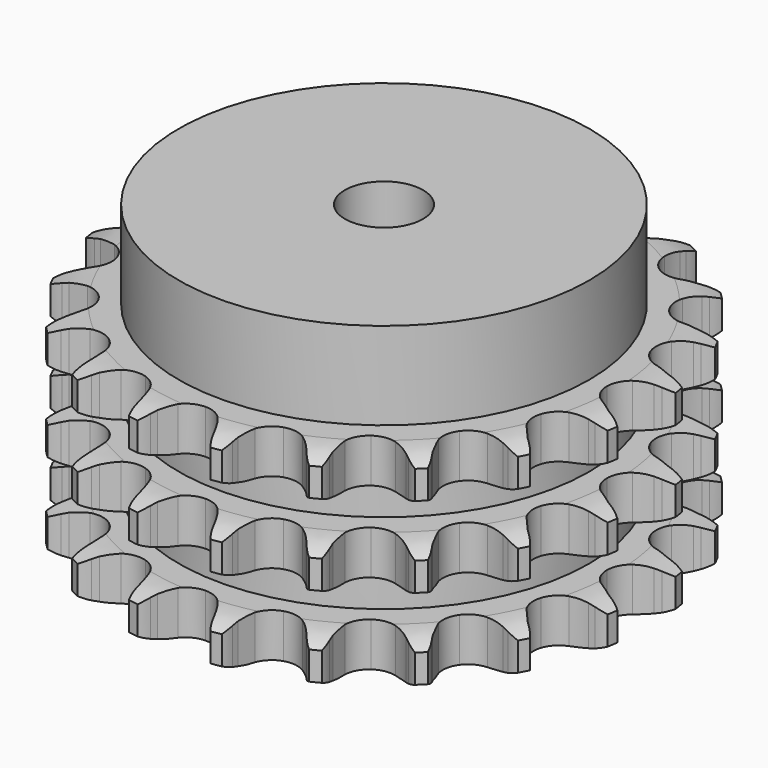
from build123d import *

# Parameters (mm, degrees)
PAD_DEPTH         = 42.1
SKETCH001_R       = 42
PAD001_DEPTH      = 60
SKETCH002_R       = 8
POCKET_DEPTH      = 0.001
POCKET_DEPTH_BACK = 60.001


with BuildPart() as part:
    # Sprocket → Pad (new body)
    with BuildSketch(Plane.XY):
        with BuildLine():
            ThreePointArc((-8.707919, 54.979639), (-7.318424, 53.516846), (-6.318533, 51.764512))
            Line((-6.318533, 51.764512), (-5.829555, 50.601281))
            ThreePointArc((-5.829555, 50.601281), (-5.041899, 49.028367), (-4.053133, 47.573443))
            ThreePointArc((-4.053133, 47.573443), (-2.254762, 46.11715), (0, 45.596597))
            ThreePointArc((0, 45.596597), (2.254762, 46.11715), (4.053133, 47.573443))
            ThreePointArc((4.053133, 47.573443), (5.041899, 49.028367), (5.829555, 50.601281))
            Line((5.829555, 50.601281), (6.318533, 51.764512))
            ThreePointArc((6.318533, 51.764512), (7.318424, 53.516846), (8.707919, 54.979639))
            ThreePointArc((8.707919, 54.979639), (9.57738, 53.159063), (9.986832, 51.18351))
            Line((9.986832, 51.18351), (10.092419, 49.92611))
            ThreePointArc((10.092419, 49.92611), (10.355468, 48.18678), (10.846243, 46.49752))
            ThreePointArc((10.846243, 46.49752), (12.106577, 44.556776), (14.090123, 43.364941))
            ThreePointArc((14.090123, 43.364941), (16.395389, 43.163257), (18.555761, 43.992546))
            Line((18.555761, 43.992546), (21.180892, 46.323246))
            ThreePointArc((21.180892, 46.323246), (21.581785, 46.810649), (22.005396, 47.278442))
            ThreePointArc((22.005396, 47.278442), (23.49785, 48.636028), (25.271366, 49.597849))
            ThreePointArc((25.271366, 49.597849), (25.535683, 47.5977), (25.314616, 45.59231))
            Line((25.314616, 45.59231), (25.026477, 44.363823))
            ThreePointArc((25.026477, 44.363823), (24.739169, 42.628336), (24.683914, 40.870096))
            ThreePointArc((24.683914, 40.870096), (25.28284, 38.634874), (26.801008, 36.888422))
            ThreePointArc((26.801008, 36.888422), (28.931122, 35.984242), (31.242022, 36.105352))
            Line((31.242022, 36.105352), (34.458896, 37.510769))
            ThreePointArc((34.458896, 37.510769), (34.990784, 37.850434), (35.538217, 38.164429))
            ThreePointArc((35.538217, 38.164429), (37.377143, 38.994376), (39.361076, 39.361076))
            ThreePointArc((39.361076, 39.361076), (38.994376, 37.377143), (38.164429, 35.538217))
            Line((38.164429, 35.538217), (37.510769, 34.458896))
            ThreePointArc((37.510769, 34.458896), (36.701228, 32.897133), (36.105352, 31.242022))
            ThreePointArc((36.105352, 31.242022), (35.984242, 28.931122), (36.888422, 26.801008))
            ThreePointArc((36.888422, 26.801008), (38.634874, 25.28284), (40.870096, 24.683914))
            Line((40.870096, 24.683914), (44.363823, 25.026477))
            ThreePointArc((44.363823, 25.026477), (44.97464, 25.185155), (45.59231, 25.314616))
            ThreePointArc((45.59231, 25.314616), (47.5977, 25.535683), (49.597849, 25.271366))
            ThreePointArc((49.597849, 25.271366), (48.636028, 23.49785), (47.278442, 22.005396))
            Line((47.278442, 22.005396), (46.323246, 21.180892))
            ThreePointArc((46.323246, 21.180892), (45.070715, 19.945729), (43.992546, 18.555761))
            ThreePointArc((43.992546, 18.555761), (43.163257, 16.395389), (43.364941, 14.090123))
            ThreePointArc((43.364941, 14.090123), (44.556776, 12.106577), (46.49752, 10.846243))
            Line((46.49752, 10.846243), (49.92611, 10.092419))
            ThreePointArc((49.92611, 10.092419), (50.556066, 10.054578), (51.18351, 9.986832))
            ThreePointArc((51.18351, 9.986832), (53.159063, 9.57738), (54.979639, 8.707919))
            ThreePointArc((54.979639, 8.707919), (53.516846, 7.318424), (51.764512, 6.318533))
            Line((51.764512, 6.318533), (50.601281, 5.829555))
            ThreePointArc((50.601281, 5.829555), (49.028367, 5.041899), (47.573443, 4.053133))
            ThreePointArc((47.573443, 4.053133), (46.11715, 2.254762), (45.596597, 0))
            ThreePointArc((45.596597, 0), (46.11715, -2.254762), (47.573443, -4.053133))
            Line((47.573443, -4.053133), (50.601281, -5.829555))
            ThreePointArc((50.601281, -5.829555), (51.188711, -6.060212), (51.764512, -6.318533))
            ThreePointArc((51.764512, -6.318533), (53.516846, -7.318424), (54.979639, -8.707919))
            ThreePointArc((54.979639, -8.707919), (53.159063, -9.57738), (51.18351, -9.986832))
            Line((51.18351, -9.986832), (49.92611, -10.092419))
            ThreePointArc((49.92611, -10.092419), (48.18678, -10.355468), (46.49752, -10.846243))
            ThreePointArc((46.49752, -10.846243), (44.556776, -12.106577), (43.364941, -14.090123))
            ThreePointArc((43.364941, -14.090123), (43.163257, -16.395389), (43.992546, -18.555761))
            Line((43.992546, -18.555761), (46.323246, -21.180892))
            ThreePointArc((46.323246, -21.180892), (46.810649, -21.581785), (47.278442, -22.005396))
            ThreePointArc((47.278442, -22.005396), (48.636028, -23.49785), (49.597849, -25.271366))
            ThreePointArc((49.597849, -25.271366), (47.5977, -25.535683), (45.59231, -25.314616))
            Line((45.59231, -25.314616), (44.363823, -25.026477))
            ThreePointArc((44.363823, -25.026477), (42.628336, -24.739169), (40.870096, -24.683914))
            ThreePointArc((40.870096, -24.683914), (38.634874, -25.28284), (36.888422, -26.801008))
            ThreePointArc((36.888422, -26.801008), (35.984242, -28.931122), (36.105352, -31.242022))
            Line((36.105352, -31.242022), (37.510769, -34.458896))
            ThreePointArc((37.510769, -34.458896), (37.850434, -34.990784), (38.164429, -35.538217))
            ThreePointArc((38.164429, -35.538217), (38.994376, -37.377143), (39.361076, -39.361076))
            ThreePointArc((39.361076, -39.361076), (37.377143, -38.994376), (35.538217, -38.164429))
            Line((35.538217, -38.164429), (34.458896, -37.510769))
            ThreePointArc((34.458896, -37.510769), (32.897133, -36.701228), (31.242022, -36.105352))
            ThreePointArc((31.242022, -36.105352), (28.931122, -35.984242), (26.801008, -36.888422))
            ThreePointArc((26.801008, -36.888422), (25.28284, -38.634874), (24.683914, -40.870096))
            Line((24.683914, -40.870096), (25.026477, -44.363823))
            ThreePointArc((25.026477, -44.363823), (25.185155, -44.97464), (25.314616, -45.59231))
            ThreePointArc((25.314616, -45.59231), (25.535683, -47.5977), (25.271366, -49.597849))
            ThreePointArc((25.271366, -49.597849), (23.49785, -48.636028), (22.005396, -47.278442))
            Line((22.005396, -47.278442), (21.180892, -46.323246))
            ThreePointArc((21.180892, -46.323246), (19.945729, -45.070715), (18.555761, -43.992546))
            ThreePointArc((18.555761, -43.992546), (16.395389, -43.163257), (14.090123, -43.364941))
            ThreePointArc((14.090123, -43.364941), (12.106577, -44.556776), (10.846243, -46.49752))
            Line((10.846243, -46.49752), (10.092419, -49.92611))
            ThreePointArc((10.092419, -49.92611), (10.054578, -50.556066), (9.986832, -51.18351))
            ThreePointArc((9.986832, -51.18351), (9.57738, -53.159063), (8.707919, -54.979639))
            ThreePointArc((8.707919, -54.979639), (7.318424, -53.516846), (6.318533, -51.764512))
            Line((6.318533, -51.764512), (5.829555, -50.601281))
            ThreePointArc((5.829555, -50.601281), (5.041899, -49.028367), (4.053133, -47.573443))
            ThreePointArc((4.053133, -47.573443), (2.254762, -46.11715), (0, -45.596597))
            ThreePointArc((0, -45.596597), (-2.254762, -46.11715), (-4.053133, -47.573443))
            Line((-4.053133, -47.573443), (-5.829555, -50.601281))
            ThreePointArc((-5.829555, -50.601281), (-6.060212, -51.188711), (-6.318533, -51.764512))
            ThreePointArc((-6.318533, -51.764512), (-7.318424, -53.516846), (-8.707919, -54.979639))
            ThreePointArc((-8.707919, -54.979639), (-9.57738, -53.159063), (-9.986832, -51.18351))
            Line((-9.986832, -51.18351), (-10.092419, -49.92611))
            ThreePointArc((-10.092419, -49.92611), (-10.355468, -48.18678), (-10.846243, -46.49752))
            ThreePointArc((-10.846243, -46.49752), (-12.106577, -44.556776), (-14.090123, -43.364941))
            ThreePointArc((-14.090123, -43.364941), (-16.395389, -43.163257), (-18.555761, -43.992546))
            Line((-18.555761, -43.992546), (-21.180892, -46.323246))
            ThreePointArc((-21.180892, -46.323246), (-21.581785, -46.810649), (-22.005396, -47.278442))
            ThreePointArc((-22.005396, -47.278442), (-23.49785, -48.636028), (-25.271366, -49.597849))
            ThreePointArc((-25.271366, -49.597849), (-25.535683, -47.5977), (-25.314616, -45.59231))
            Line((-25.314616, -45.59231), (-25.026477, -44.363823))
            ThreePointArc((-25.026477, -44.363823), (-24.739169, -42.628336), (-24.683914, -40.870096))
            ThreePointArc((-24.683914, -40.870096), (-25.28284, -38.634874), (-26.801008, -36.888422))
            ThreePointArc((-26.801008, -36.888422), (-28.931122, -35.984242), (-31.242022, -36.105352))
            Line((-31.242022, -36.105352), (-34.458896, -37.510769))
            ThreePointArc((-34.458896, -37.510769), (-34.990784, -37.850434), (-35.538217, -38.164429))
            ThreePointArc((-35.538217, -38.164429), (-37.377143, -38.994376), (-39.361076, -39.361076))
            ThreePointArc((-39.361076, -39.361076), (-38.994376, -37.377143), (-38.164429, -35.538217))
            Line((-38.164429, -35.538217), (-37.510769, -34.458896))
            ThreePointArc((-37.510769, -34.458896), (-36.701228, -32.897133), (-36.105352, -31.242022))
            ThreePointArc((-36.105352, -31.242022), (-35.984242, -28.931122), (-36.888422, -26.801008))
            ThreePointArc((-36.888422, -26.801008), (-38.634874, -25.28284), (-40.870096, -24.683914))
            Line((-40.870096, -24.683914), (-44.363823, -25.026477))
            ThreePointArc((-44.363823, -25.026477), (-44.97464, -25.185155), (-45.59231, -25.314616))
            ThreePointArc((-45.59231, -25.314616), (-47.5977, -25.535683), (-49.597849, -25.271366))
            ThreePointArc((-49.597849, -25.271366), (-48.636028, -23.49785), (-47.278442, -22.005396))
            Line((-47.278442, -22.005396), (-46.323246, -21.180892))
            ThreePointArc((-46.323246, -21.180892), (-45.070715, -19.945729), (-43.992546, -18.555761))
            ThreePointArc((-43.992546, -18.555761), (-43.163257, -16.395389), (-43.364941, -14.090123))
            ThreePointArc((-43.364941, -14.090123), (-44.556776, -12.106577), (-46.49752, -10.846243))
            Line((-46.49752, -10.846243), (-49.92611, -10.092419))
            ThreePointArc((-49.92611, -10.092419), (-50.556066, -10.054578), (-51.18351, -9.986832))
            ThreePointArc((-51.18351, -9.986832), (-53.159063, -9.57738), (-54.979639, -8.707919))
            ThreePointArc((-54.979639, -8.707919), (-53.516846, -7.318424), (-51.764512, -6.318533))
            Line((-51.764512, -6.318533), (-50.601281, -5.829555))
            ThreePointArc((-50.601281, -5.829555), (-49.028367, -5.041899), (-47.573443, -4.053133))
            ThreePointArc((-47.573443, -4.053133), (-46.11715, -2.254762), (-45.596597, 0))
            ThreePointArc((-45.596597, 0), (-46.11715, 2.254762), (-47.573443, 4.053133))
            Line((-47.573443, 4.053133), (-50.601281, 5.829555))
            ThreePointArc((-50.601281, 5.829555), (-51.188711, 6.060212), (-51.764512, 6.318533))
            ThreePointArc((-51.764512, 6.318533), (-53.516846, 7.318424), (-54.979639, 8.707919))
            ThreePointArc((-54.979639, 8.707919), (-53.159063, 9.57738), (-51.18351, 9.986832))
            Line((-51.18351, 9.986832), (-49.92611, 10.092419))
            ThreePointArc((-49.92611, 10.092419), (-48.18678, 10.355468), (-46.49752, 10.846243))
            ThreePointArc((-46.49752, 10.846243), (-44.556776, 12.106577), (-43.364941, 14.090123))
            ThreePointArc((-43.364941, 14.090123), (-43.163257, 16.395389), (-43.992546, 18.555761))
            Line((-43.992546, 18.555761), (-46.323246, 21.180892))
            ThreePointArc((-46.323246, 21.180892), (-46.810649, 21.581785), (-47.278442, 22.005396))
            ThreePointArc((-47.278442, 22.005396), (-48.636028, 23.49785), (-49.597849, 25.271366))
            ThreePointArc((-49.597849, 25.271366), (-47.5977, 25.535683), (-45.59231, 25.314616))
            Line((-45.59231, 25.314616), (-44.363823, 25.026477))
            ThreePointArc((-44.363823, 25.026477), (-42.628336, 24.739169), (-40.870096, 24.683914))
            ThreePointArc((-40.870096, 24.683914), (-38.634874, 25.28284), (-36.888422, 26.801008))
            ThreePointArc((-36.888422, 26.801008), (-35.984242, 28.931122), (-36.105352, 31.242022))
            Line((-36.105352, 31.242022), (-37.510769, 34.458896))
            ThreePointArc((-37.510769, 34.458896), (-37.850434, 34.990784), (-38.164429, 35.538217))
            ThreePointArc((-38.164429, 35.538217), (-38.994376, 37.377143), (-39.361076, 39.361076))
            ThreePointArc((-39.361076, 39.361076), (-37.377143, 38.994376), (-35.538217, 38.164429))
            Line((-35.538217, 38.164429), (-34.458896, 37.510769))
            ThreePointArc((-34.458896, 37.510769), (-32.897133, 36.701228), (-31.242022, 36.105352))
            ThreePointArc((-31.242022, 36.105352), (-28.931122, 35.984242), (-26.801008, 36.888422))
            ThreePointArc((-26.801008, 36.888422), (-25.28284, 38.634874), (-24.683914, 40.870096))
            Line((-24.683914, 40.870096), (-25.026477, 44.363823))
            ThreePointArc((-25.026477, 44.363823), (-25.185155, 44.97464), (-25.314616, 45.59231))
            ThreePointArc((-25.314616, 45.59231), (-25.535683, 47.5977), (-25.271366, 49.597849))
            ThreePointArc((-25.271366, 49.597849), (-23.49785, 48.636028), (-22.005396, 47.278442))
            Line((-22.005396, 47.278442), (-21.180892, 46.323246))
            ThreePointArc((-21.180892, 46.323246), (-19.945729, 45.070715), (-18.555761, 43.992546))
            ThreePointArc((-18.555761, 43.992546), (-16.395389, 43.163257), (-14.090123, 43.364941))
            ThreePointArc((-14.090123, 43.364941), (-12.106577, 44.556776), (-10.846243, 46.49752))
            Line((-10.846243, 46.49752), (-10.092419, 49.92611))
            ThreePointArc((-10.092419, 49.92611), (-10.054578, 50.556066), (-9.986832, 51.18351))
            ThreePointArc((-9.986832, 51.18351), (-9.57738, 53.159063), (-8.707919, 54.979639))
        make_face()
    extrude(amount=PAD_DEPTH)

    # Sketch → Groove (revolve, cut)
    with BuildSketch(Plane.XZ):
        with BuildLine():
            ThreePointArc((47.225762, 0), (50.80347, 0.405129), (54.2, 1.6))
            Line((54.2, 1.6), (54.2, 7.4))
            ThreePointArc((54.2, 7.4), (50.80347, 8.594871), (47.225762, 9))
            Line((42, 9), (47.225762, 9))
            Line((42, 9), (42, 16.55))
            Line((42, 16.55), (47.225762, 16.55))
            ThreePointArc((47.225762, 16.55), (50.80347, 16.955129), (54.2, 18.15))
            Line((54.2, 23.95), (54.2, 18.15))
            ThreePointArc((54.2, 23.95), (50.80347, 25.144871), (47.225762, 25.55))
            Line((42, 25.55), (47.225762, 25.55))
            Line((42, 33.1), (42, 25.55))
            Line((47.225762, 33.1), (42, 33.1))
            ThreePointArc((47.225762, 33.1), (50.80347, 33.505129), (54.2, 34.7))
            Line((54.2, 34.7), (54.2, 40.5))
            ThreePointArc((54.2, 40.5), (50.80347, 41.694871), (47.225762, 42.1))
            Line((47.225762, 42.1), (64.2, 42.1))
            Line((64.2, 42.1), (64.2, 0))
            Line((47.225762, 0), (64.2, 0))
        make_face()
    revolve(axis=Axis((0, 0, 0), (0, 0, 1)), mode=Mode.SUBTRACT)

    # Sketch001 → Pad001 (join)
    with BuildSketch(Plane.XY):
        Circle(SKETCH001_R)
    extrude(amount=PAD001_DEPTH)

    # Sketch002 → Pocket (cut, two sides)
    with BuildSketch(Plane.XY) as pocket_sk:
        Circle(SKETCH002_R)
    extrude(amount=-POCKET_DEPTH, mode=Mode.SUBTRACT)
    extrude(pocket_sk.sketch, amount=POCKET_DEPTH_BACK, mode=Mode.SUBTRACT)


solid = part.part
